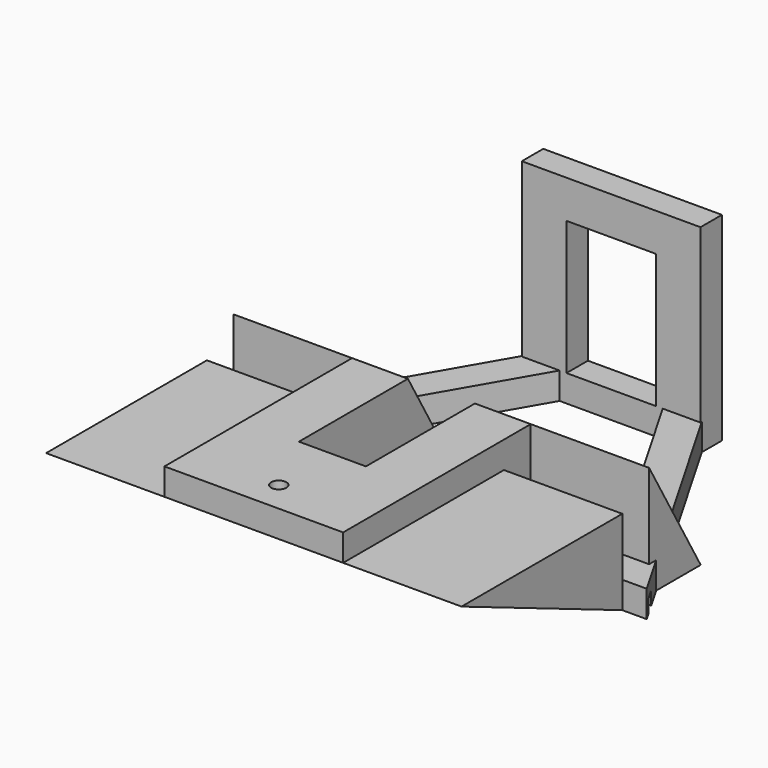
from build123d import *

# Parameters (mm, degrees)
BOX031_W                 = 46
BOX031_H                 = 15
BOX031_DEPTH             = 16
BOX029_W                 = 78
BOX029_H                 = 15
BOX029_DEPTH             = 6
BOX023_W                 = 220
BOX023_H                 = 2.5
BOX023_DEPTH             = 3
EXTRUDE011_DEPTH         = 10
BOX024_W                 = 220
BOX024_H                 = 113
BOX024_DEPTH             = 8
BOX026_W                 = 32
BOX026_H                 = 6
BOX026_DEPTH             = 6
PRISM004_DEPTH           = 6
PRISM004_PLACEMENT_ANGLE = 30
PRISM005_DEPTH           = 6
PRISM005_PLACEMENT_ANGLE = 30
EXTRUDE012_DEPTH         = 39
EXTRUDE009_DEPTH         = 39
EXTRUDE008_DEPTH         = 39
BOX009_W                 = 12.5
BOX009_H                 = 7.5
BOX009_DEPTH             = 22
BOX010_W                 = 12.5
BOX010_H                 = 7.5
BOX010_DEPTH             = 22
CYLINDER_R               = 1.7
CYLINDER_DEPTH           = 30
BOX007_W                 = 15
BOX007_H                 = 70
BOX007_DEPTH             = 6
BOX006_W                 = 40
BOX006_H                 = 51
BOX006_DEPTH             = 6
EXTRUDE010_DEPTH         = 39
BOX021_W                 = 12.5
BOX021_H                 = 7.5
BOX021_DEPTH             = 22
BOX027_W                 = 12.5
BOX027_H                 = 7.5
BOX027_DEPTH             = 22
CYLINDER002_R            = 1.7
CYLINDER002_DEPTH        = 30
BOX025_W                 = 15
BOX025_H                 = 70
BOX025_DEPTH             = 6
BOX022_W                 = 40
BOX022_H                 = 51
BOX022_DEPTH             = 6
BOX005_W                 = 20
BOX005_H                 = 6
BOX005_DEPTH             = 30
BOX004_W                 = 40
BOX004_H                 = 6
BOX004_DEPTH             = 44.5


with BuildPart() as cube030:
    # Box031 → Box031 (new body)
    with BuildSketch(Plane(origin=(-22, 15, 0), x_dir=(1, 0, 0), z_dir=(0, 0, 1))):
        with Locations((23, 7.5)):
            Rectangle(BOX031_W, BOX031_H)
    extrude(amount=BOX031_DEPTH)


with BuildPart() as cube028:
    # Box029 → Box029 (new body)
    with BuildSketch(Plane(origin=(-39, 0, 0), x_dir=(1, 0, 0), z_dir=(0, 0, 1))):
        with Locations((39, 7.5)):
            Rectangle(BOX029_W, BOX029_H)
    extrude(amount=BOX029_DEPTH)


with BuildPart() as cube022:
    # Box023 → Box023 (new body)
    with BuildSketch(Plane(origin=(-110, 2, 0), x_dir=(1, 0, 0), z_dir=(0, 0, 1))):
        with Locations((110, 1.25)):
            Rectangle(BOX023_W, BOX023_H)
    extrude(amount=BOX023_DEPTH)


with BuildPart() as extrude011:
    # Sketch009 → Extrude011 (new body)
    with BuildSketch(Plane.XY):
        Polygon((-95, 0), (95, 0), (85, 61), (-85, 61), align=None)
    extrude(amount=EXTRUDE011_DEPTH)


with BuildPart() as obj1:
    # Box024 → Box024 (new body)
    with BuildSketch(Plane(origin=(-110, -15, 0), x_dir=(1, 0, 0), z_dir=(0, 0, 1))):
        with Locations((110, 56.5)):
            Rectangle(BOX024_W, BOX024_H)
    extrude(amount=BOX024_DEPTH)

    # Cut004020: cut Extrude011
    add(extrude011.part, mode=Mode.SUBTRACT)


with BuildPart() as cube025:
    # Box026 → Box026 (new body)
    with BuildSketch(Plane(origin=(-16, 55, 0), x_dir=(1, 0, 0), z_dir=(0, 0, 1))):
        with Locations((16, 3)):
            Rectangle(BOX026_W, BOX026_H)
    extrude(amount=BOX026_DEPTH)


with BuildPart() as prism004:
    # Prism004 → Prism004 (new body)
    with BuildSketch(Plane.XY):
        Polygon((45, 0), (-22.5, 38.971143), (-22.5, -38.971143), align=None)
    extrude(amount=PRISM004_DEPTH)


with BuildPart() as prism004_1:
    # Prism004 placement: moved
    add(prism004.part.moved(Location((0, 23, 0))).rotate(Axis((0, 23, 0), (0, 0, -1)), PRISM004_PLACEMENT_ANGLE))


with BuildPart() as obj2:
    # Prism005 → Prism005 (new body)
    with BuildSketch(Plane.XY):
        Polygon((60, 0), (-30, 51.961524), (-30, -51.961524), align=None)
    extrude(amount=PRISM005_DEPTH)


with BuildPart() as obj2_1:
    # Prism005 placement: moved
    add(obj2.part.moved(Location((0, 23, 0))).rotate(Axis((0, 23, 0), (0, 0, -1)), PRISM005_PLACEMENT_ANGLE))

    # Cut004019: cut Prism004
    add(prism004_1.part, mode=Mode.SUBTRACT)


with BuildPart() as obj2_2:
    # Cut004019 placement: moved
    add(obj2_1.part.moved(Location((0, 7, 0))))

    # Fusion004005: union Cube025
    add(cube025.part)

    # Cut004015: cut obj1
    add(obj1.part, mode=Mode.SUBTRACT)

    # Cut004016: cut Cube022
    add(cube022.part, mode=Mode.SUBTRACT)


with BuildPart() as extrude012:
    # Sketch010 (on Face21 of Fusion004006) → Extrude012 (new body)
    with BuildSketch(Plane(origin=(-20, 0, 0), x_dir=(0, -1, 0), z_dir=(-1, 0, 0))):
        Polygon((-7.5, 0), (-7.5, 25), (-21.933757, 0), align=None)
    extrude(amount=-EXTRUDE012_DEPTH)


with BuildPart() as extrude012_1:
    # Extrude012 placement: moved
    add(extrude012.part.moved(Location((27.5, 0, 0))))


with BuildPart() as extrude009:
    # Sketch007 (on Face17 of Fusion004002) → Extrude009 (new body)
    with BuildSketch(Plane(origin=(-20, 0, 0), x_dir=(0, -1, 0), z_dir=(-1, 0, 0))):
        Polygon((0, 0), (0, 19), (45, 19), align=None)
    extrude(amount=EXTRUDE009_DEPTH)


with BuildPart() as extrude009_1:
    # Extrude009 placement: moved
    add(extrude009.part.moved(Location((66.5, 0, 0))))


with BuildPart() as extrude008:
    # Sketch007 (on Face17 of Fusion004002) → Extrude008 (new body)
    with BuildSketch(Plane(origin=(-20, 0, 0), x_dir=(0, -1, 0), z_dir=(-1, 0, 0))):
        Polygon((0, 0), (0, 19), (45, 19), align=None)
    extrude(amount=-EXTRUDE008_DEPTH)


with BuildPart() as extrude008_1:
    # Extrude008 placement: moved
    add(extrude008.part.moved(Location((-26.5, 0, 0))))


with BuildPart() as cube008:
    # Box009 → Box009 (new body)
    with BuildSketch(Plane(origin=(7.5, 0, 3), x_dir=(1, 0, 0), z_dir=(0, 0, 1))):
        with Locations((6.25, 3.75)):
            Rectangle(BOX009_W, BOX009_H)
    extrude(amount=BOX009_DEPTH)


with BuildPart() as cube009:
    # Box010 → Box010 (new body)
    with BuildSketch(Plane(origin=(-20, 0, 3), x_dir=(1, 0, 0), z_dir=(0, 0, 1))):
        with Locations((6.25, 3.75)):
            Rectangle(BOX010_W, BOX010_H)
    extrude(amount=BOX010_DEPTH)


with BuildPart() as cylinder:
    # Cylinder → Cylinder (new body)
    with BuildSketch(Plane(origin=(0, 7, 0), x_dir=(1, 0, 0), z_dir=(0, 0, 1))):
        Circle(CYLINDER_R)
    extrude(amount=CYLINDER_DEPTH)


with BuildPart() as cube007:
    # Box007 → Box007 (new body)
    with BuildSketch(Plane(origin=(12.5, 22, 20), x_dir=(1, 0, 0), z_dir=(0, 0, 1))):
        with Locations((7.5, 35)):
            Rectangle(BOX007_W, BOX007_H)
    extrude(amount=BOX007_DEPTH)


with BuildPart() as fusion004002:
    # Box006 → Box006 (new body)
    with BuildSketch(Plane.XY.offset(20)):
        with Locations((20, 25.5)):
            Rectangle(BOX006_W, BOX006_H)
    extrude(amount=BOX006_DEPTH)

    # Cut004005: cut Cube007
    add(cube007.part, mode=Mode.SUBTRACT)


with BuildPart() as fusion004002_1:
    # Cut004005 placement: moved
    add(fusion004002.part.moved(Location((-20, 0, -1))))

    # Cut004006: cut Cylinder
    add(cylinder.part, mode=Mode.SUBTRACT)


with BuildPart() as fusion004002_2:
    # Cut004006 placement: moved
    add(fusion004002_1.part.moved(Location((0, -45, 0))))

    # Fusion004002: union Cube008, Cube009
    add(cube008.part)
    add(cube009.part)


with BuildPart() as fusion004007:
    # Sketch008 (on Face21 of Fusion004002) → Extrude010 (new body)
    with BuildSketch(Plane(origin=(-20, 0, 0), x_dir=(0, -1, 0), z_dir=(-1, 0, 0))):
        Polygon((-7.5, 0), (-7.5, 25), (-21.933757, 0), align=None)
    extrude(amount=-EXTRUDE010_DEPTH)


with BuildPart() as fusion004007_1:
    # Extrude010 placement: moved
    add(fusion004007.part.moved(Location((-26.5, 0, 0))))

    # Fusion004007: union Extrude012, Extrude009, Extrude008, Fusion004002
    add(extrude012_1.part)
    add(extrude009_1.part)
    add(extrude008_1.part)
    add(fusion004002_2.part)


with BuildPart() as cube020:
    # Box021 → Box021 (new body)
    with BuildSketch(Plane(origin=(7.5, 0, 3), x_dir=(1, 0, 0), z_dir=(0, 0, 1))):
        with Locations((6.25, 3.75)):
            Rectangle(BOX021_W, BOX021_H)
    extrude(amount=BOX021_DEPTH)


with BuildPart() as cube026:
    # Box027 → Box027 (new body)
    with BuildSketch(Plane(origin=(-20, 0, 3), x_dir=(1, 0, 0), z_dir=(0, 0, 1))):
        with Locations((6.25, 3.75)):
            Rectangle(BOX027_W, BOX027_H)
    extrude(amount=BOX027_DEPTH)


with BuildPart() as cylinder002:
    # Cylinder002 → Cylinder002 (new body)
    with BuildSketch(Plane(origin=(0, 7, 0), x_dir=(1, 0, 0), z_dir=(0, 0, 1))):
        Circle(CYLINDER002_R)
    extrude(amount=CYLINDER002_DEPTH)


with BuildPart() as cube024:
    # Box025 → Box025 (new body)
    with BuildSketch(Plane(origin=(12.5, 22, 20), x_dir=(1, 0, 0), z_dir=(0, 0, 1))):
        with Locations((7.5, 35)):
            Rectangle(BOX025_W, BOX025_H)
    extrude(amount=BOX025_DEPTH)


with BuildPart() as parte_frontal:
    # Box022 → Box022 (new body)
    with BuildSketch(Plane.XY.offset(20)):
        with Locations((20, 25.5)):
            Rectangle(BOX022_W, BOX022_H)
    extrude(amount=BOX022_DEPTH)

    # Cut004017: cut Cube024
    add(cube024.part, mode=Mode.SUBTRACT)


with BuildPart() as parte_frontal_1:
    # Cut004017 placement: moved
    add(parte_frontal.part.moved(Location((-20, 0, -1))))

    # Cut004018: cut Cylinder002
    add(cylinder002.part, mode=Mode.SUBTRACT)


with BuildPart() as parte_frontal_2:
    # Cut004018 placement: moved
    add(parte_frontal_1.part.moved(Location((0, -45, 0))))

    # Fusion004006: union Cube020, Cube026
    add(cube020.part)
    add(cube026.part)

    # Fusion004008: union Fusion004007
    add(fusion004007_1.part)


with BuildPart() as cube005:
    # Box005 → Box005 (new body)
    with BuildSketch(Plane(origin=(-10, 55, 6), x_dir=(1, 0, 0), z_dir=(0, 0, 1))):
        with Locations((10, 3)):
            Rectangle(BOX005_W, BOX005_H)
    extrude(amount=BOX005_DEPTH)


with BuildPart() as cut004022:
    # Box004 → Box004 (new body)
    with BuildSketch(Plane(origin=(-20, 55, 0), x_dir=(1, 0, 0), z_dir=(0, 0, 1))):
        with Locations((20, 3)):
            Rectangle(BOX004_W, BOX004_H)
    extrude(amount=BOX004_DEPTH)

    # Cut004004: cut Cube005
    add(cube005.part, mode=Mode.SUBTRACT)

    # Fusion004009: union obj2, parte_frontal
    add(obj2_2.part)
    add(parte_frontal_2.part)

    # Fusion004009002: union Cube028
    add(cube028.part)

    # Cut004022: cut Cube030
    add(cube030.part, mode=Mode.SUBTRACT)


solid = cut004022.part
